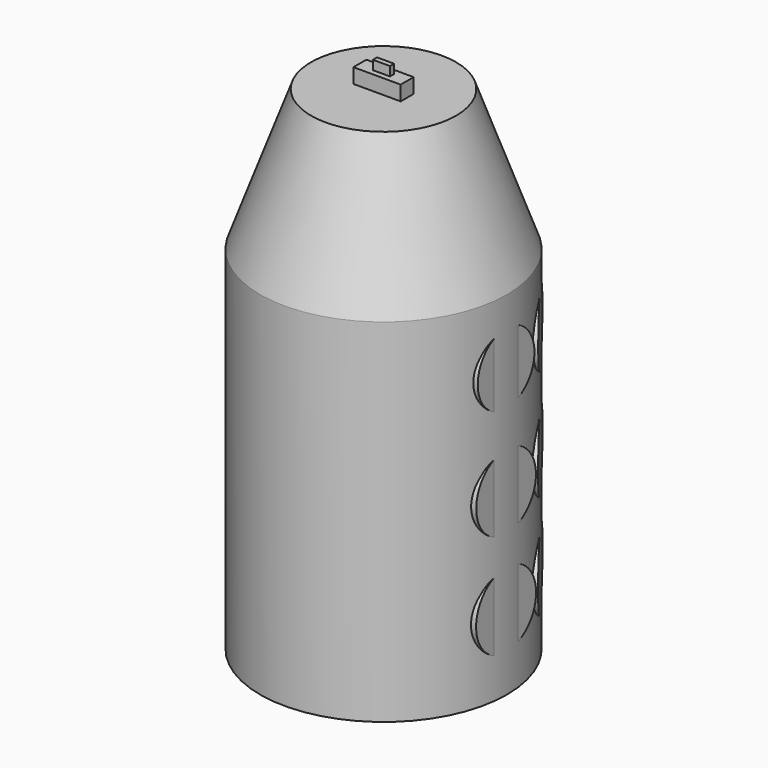
from build123d import *

# Parameters (mm, degrees)
F0_R      = 44.5248466795
F1_DEPTH  = 127
F1_FACE_R = 44.5248466795
F3_R      = 26.1469477588
F5_W      = 17.0279424638
F5_H      = 5.8480743319
F6_DEPTH  = 5.334
F7_W      = 6.1410777271
F7_H      = 1.8572835252
F8_DEPTH  = 3.302
F10_R     = 13.5225140735
F11_DEPTH = 12.7
F12_COUNT = 6
F12_ANGLE = 180
F13_R     = 13.4559211293
F14_DEPTH = 23.876
F13_R_2   = 12.7779679191
F15_COUNT = 6
F15_ANGLE = 180
F16_COUNT = 6
F16_ANGLE = 180
F17_W     = 45.9049679339
F17_H     = 7.7458322048
F18_DEPTH = 25.4


with BuildPart() as f1:
    # F0 (on Top) → F1 (new body)
    with BuildSketch(Plane.XY):
        Circle(F0_R)
    extrude(amount=F1_DEPTH)

    # F1_face (on face) → F4 section 0
    with BuildSketch(Plane.XY.offset(127)):
        Circle(F1_FACE_R)
    # F3 (on offset) → F4 section 1
    with BuildSketch(Plane.XY.offset(177.8)):
        Circle(F3_R)
    loft()

    # F5 (on face) → F6 (join)
    with BuildSketch(Plane.XY.offset(177.8)):
        Rectangle(F5_W, F5_H)
    extrude(amount=F6_DEPTH)

    # F7 (on face) → F8 (join)
    with BuildSketch(Plane.XY.offset(183.134)):
        Rectangle(F7_W, F7_H)
    extrude(amount=F8_DEPTH)

    # F17 (on face) → F18 (cut)
    with BuildSketch(Plane(origin=(-13.6573150834, 42.0328937942, 0), x_dir=(-0.9510565163, -0.3090169944, 0), z_dir=(-0.3090169944, 0.9510565163, 0))):
        with Locations((-14.7303529084, 158.3532392979)):
            Rectangle(F17_W, F17_H)
    extrude(amount=-F18_DEPTH, mode=Mode.SUBTRACT)


with BuildPart() as f11:
    # F10 (on offset) → F11 (new body)
    with BuildSketch(Plane.YZ.offset(44.196)):
        with Locations((0, 26.846839115)):
            Circle(F10_R)
    extrude(amount=-F11_DEPTH)


with BuildPart() as f12_1:
    # F12: instance of F11
    add(f11.part.rotate(Axis((0, 0, 127), (0, 0, 1)), 1 * F12_ANGLE / (F12_COUNT - 1)))


with BuildPart() as f12_2:
    # F12: instance of F11
    add(f11.part.rotate(Axis((0, 0, 127), (0, 0, 1)), 2 * F12_ANGLE / (F12_COUNT - 1)))


with BuildPart() as f12_3:
    # F12: instance of F11
    add(f11.part.rotate(Axis((0, 0, 127), (0, 0, 1)), 3 * F12_ANGLE / (F12_COUNT - 1)))


with BuildPart() as f12_4:
    # F12: instance of F11
    add(f11.part.rotate(Axis((0, 0, 127), (0, 0, 1)), 4 * F12_ANGLE / (F12_COUNT - 1)))


with BuildPart() as f12_5:
    # F12: instance of F11
    add(f11.part.rotate(Axis((0, 0, 127), (0, 0, 1)), 5 * F12_ANGLE / (F12_COUNT - 1)))


with BuildPart() as f14:
    # F13 (on offset) → F14 (new body)
    with BuildSketch(Plane.YZ.offset(44.196)):
        with Locations((0, 64.3794760108)):
            Circle(F13_R)
    extrude(amount=-F14_DEPTH)


with BuildPart() as f14b:
    # F13 (on offset) → F14, piece 2 (new body)
    with BuildSketch(Plane.YZ.offset(44.196)):
        with Locations((0, 103.4716740251)):
            Circle(F13_R_2)
    extrude(amount=-F14_DEPTH)


with BuildPart() as f15_1:
    # F15: instance of F14b
    add(f14b.part.rotate(Axis((0, 0, 127), (0, 0, 1)), 1 * F15_ANGLE / (F15_COUNT - 1)))


with BuildPart() as f15_2:
    # F15: instance of F14b
    add(f14b.part.rotate(Axis((0, 0, 127), (0, 0, 1)), 2 * F15_ANGLE / (F15_COUNT - 1)))


with BuildPart() as f15_3:
    # F15: instance of F14b
    add(f14b.part.rotate(Axis((0, 0, 127), (0, 0, 1)), 3 * F15_ANGLE / (F15_COUNT - 1)))


with BuildPart() as f15_4:
    # F15: instance of F14b
    add(f14b.part.rotate(Axis((0, 0, 127), (0, 0, 1)), 4 * F15_ANGLE / (F15_COUNT - 1)))


with BuildPart() as f15_5:
    # F15: instance of F14b
    add(f14b.part.rotate(Axis((0, 0, 127), (0, 0, 1)), 5 * F15_ANGLE / (F15_COUNT - 1)))


with BuildPart() as f16_1:
    # F16: instance of F14
    add(f14.part.rotate(Axis((0, 0, 127), (0, 0, 1)), 1 * F16_ANGLE / (F16_COUNT - 1)))


with BuildPart() as f16_2:
    # F16: instance of F14
    add(f14.part.rotate(Axis((0, 0, 127), (0, 0, 1)), 2 * F16_ANGLE / (F16_COUNT - 1)))


with BuildPart() as f16_3:
    # F16: instance of F14
    add(f14.part.rotate(Axis((0, 0, 127), (0, 0, 1)), 3 * F16_ANGLE / (F16_COUNT - 1)))


with BuildPart() as f16_4:
    # F16: instance of F14
    add(f14.part.rotate(Axis((0, 0, 127), (0, 0, 1)), 4 * F16_ANGLE / (F16_COUNT - 1)))


with BuildPart() as f16_5:
    # F16: instance of F14
    add(f14.part.rotate(Axis((0, 0, 127), (0, 0, 1)), 5 * F16_ANGLE / (F16_COUNT - 1)))


solid = Compound([f1.part, f11.part, f12_1.part, f12_2.part, f12_3.part, f12_4.part, f12_5.part, f14.part, f14b.part, f15_1.part, f15_2.part, f15_3.part, f15_4.part, f15_5.part, f16_1.part, f16_2.part, f16_3.part, f16_4.part, f16_5.part])
